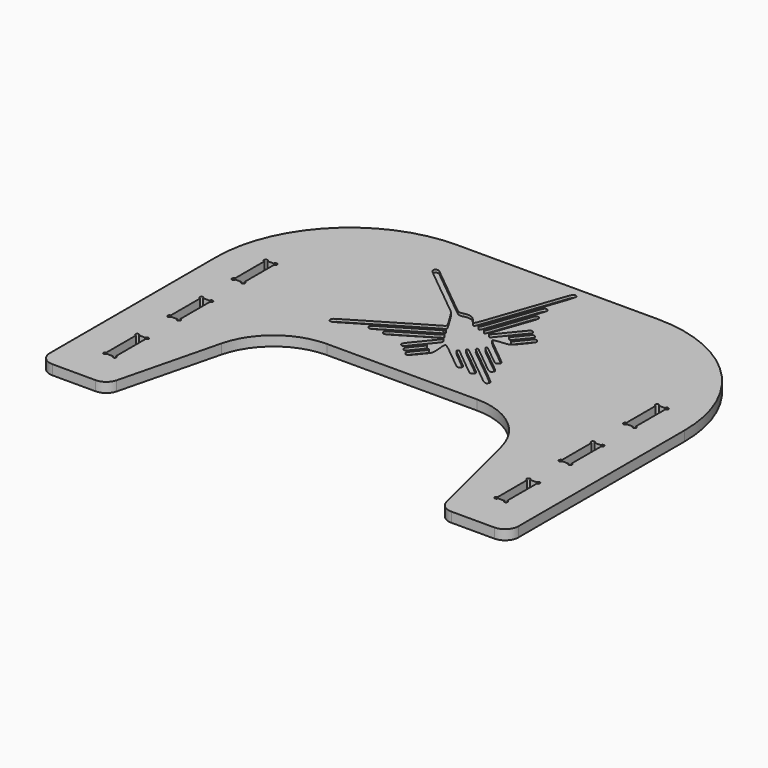
from build123d import *

# Parameters (mm, degrees)
SKETCH_W               = 889
SKETCH_H               = 673.1
PAD_DEPTH              = 18.669
POCKET_DEPTH           = 18.67
FILLET_R               = 127
FILLET001_R            = 25.4
FILLET002_R            = 25.4
POCKET001_DEPTH        = 18.67
LINEARPATTERN_COUNT    = 3
LINEARPATTERN_PITCH    = 152.4
POCKET002_DEPTH        = 18.67
LINEARPATTERN001_COUNT = 3
LINEARPATTERN001_PITCH = 152.4
FILLET003_R            = 254
POCKET003_DEPTH        = 5.08


with BuildPart() as part:
    # Sketch → Pad (new body)
    with BuildSketch(Plane.XY):
        Rectangle(SKETCH_W, SKETCH_H)
    extrude(amount=PAD_DEPTH)

    # Sketch001 (on Face6 of Pad) → Pocket (cut, through all)
    with BuildSketch(Plane.XY.offset(18.669)):
        Polygon((-241.3, -31.75), (241.3, -31.75), (317.5, -336.55), (-317.5, -336.55), align=None)
    extrude(amount=-POCKET_DEPTH, mode=Mode.SUBTRACT)

    # Fillet
    fillet_edges = [part.edges().sort_by_distance(p)[0] for p in [
        (-241.3, -31.75, 9.3345),
        (241.3, -31.75, 9.3345),
    ]]
    fillet(fillet_edges, radius=FILLET_R)

    # Fillet001
    fillet001_edges = [part.edges().sort_by_distance(p)[0] for p in [
        (-317.5, -336.55, 9.3345),
        (317.5, -336.55, 9.3345),
    ]]
    fillet(fillet001_edges, radius=FILLET001_R)

    # Fillet002
    fillet002_edges = [part.edges().sort_by_distance(p)[0] for p in [
        (-444.5, -336.55, 9.3345),
        (444.5, -336.55, 9.3345),
    ]]
    fillet(fillet002_edges, radius=FILLET002_R)

    # Sketch002 (on Face16 of Fillet002) → Pocket001 (cut, through all)
    with BuildSketch(Plane.XY.offset(18.669)):
        with BuildLine():
            ThreePointArc((-361.95, -187.325), (-359.704936, -181.904936), (-365.125, -184.15))
            Line((-377.063, -184.15), (-365.125, -184.15))
            ThreePointArc((-377.063, -184.15), (-382.483064, -181.904936), (-380.238, -187.325))
            Line((-380.238, -257.175), (-380.238, -187.325))
            ThreePointArc((-380.238, -257.175), (-382.483064, -262.595064), (-377.063, -260.35))
            Line((-377.063, -260.35), (-365.125, -260.35))
            ThreePointArc((-365.125, -260.35), (-359.704936, -262.595064), (-361.95, -257.175))
            Line((-361.95, -187.325), (-361.95, -257.175))
        make_face()
    pocket001 = extrude(amount=-POCKET001_DEPTH, mode=Mode.SUBTRACT)

    # LinearPattern: Pocket001 ×3
    with Locations(*[(0, i * LINEARPATTERN_PITCH, 0) for i in range(1, LINEARPATTERN_COUNT)]):
        add(pocket001, mode=Mode.SUBTRACT)

    # Sketch003 (on Face40 of LinearPattern) → Pocket002 (cut, through all)
    with BuildSketch(Plane.XY.offset(18.669)):
        with BuildLine():
            ThreePointArc((377.063, -260.35), (382.483064, -262.595064), (380.238, -257.175))
            Line((380.238, -257.175), (380.238, -187.325))
            ThreePointArc((380.238, -187.325), (382.483064, -181.904936), (377.063, -184.15))
            Line((377.063, -184.15), (365.125, -184.15))
            ThreePointArc((365.125, -184.15), (359.704936, -181.904936), (361.95, -187.325))
            Line((361.95, -187.325), (361.95, -257.175))
            ThreePointArc((361.95, -257.175), (359.704936, -262.595064), (365.125, -260.35))
            Line((365.125, -260.35), (377.063, -260.35))
        make_face()
    pocket002 = extrude(amount=-POCKET002_DEPTH, mode=Mode.SUBTRACT)

    # LinearPattern001: Pocket002 ×3
    with Locations(*[(0, i * LINEARPATTERN001_PITCH, 0) for i in range(1, LINEARPATTERN001_COUNT)]):
        add(pocket002, mode=Mode.SUBTRACT)

    # Fillet003
    fillet003_edges = [part.edges().sort_by_distance(p)[0] for p in [
        (444.5, 336.55, 9.3345),
        (-444.5, 336.55, 9.3345),
    ]]
    fillet(fillet003_edges, radius=FILLET003_R)

    # Sketch004 (on Face66 of Fillet003) → Pocket003 (cut)
    with BuildSketch(Plane.XY.offset(18.669)):
        with BuildLine():
            add(Edge.make_bspline(
                [(50.253053, 318.905467), (51.062467, 318.235753), (51.857487, 317.597367), (52.020893, 317.488147)],
                knots=[0, 0, 0, 0, 1, 1, 1, 1], degree=3))
            add(Edge.make_bspline(
                [(52.020893, 317.488147), (52.92598, 316.88278), (46.394793, 296.037847), (38.386173, 273.97202)],
                knots=[0, 0, 0, 0, 1, 1, 1, 1], degree=3))
            add(Edge.make_bspline(
                [(38.386173, 273.97202), (36.148433, 267.8049), (31.858373, 255.665393), (28.853553, 246.995527)],
                knots=[0, 0, 0, 0, 1, 1, 1, 1], degree=3))
            add(Edge.make_bspline(
                [(28.853553, 246.995527), (25.848733, 238.326507), (22.12086, 227.649193), (20.56892, 223.269387)],
                knots=[0, 0, 0, 0, 1, 1, 1, 1], degree=3))
            add(Edge.make_bspline(
                [(20.56892, 223.269387), (19.01698, 218.890427), (13.900573, 204.191447), (9.199033, 190.605833)],
                knots=[0, 0, 0, 0, 1, 1, 1, 1], degree=3))
            add(Edge.make_bspline(
                [(9.199033, 190.605833), (4.496647, 177.02022), (-0.169333, 163.656433), (-1.170093, 160.909)],
                knots=[0, 0, 0, 0, 1, 1, 1, 1], degree=3))
            add(Edge.make_bspline(
                [(-1.170093, 160.909), (-3.660987, 154.07132), (-3.517053, 151.256153), (-0.73406, 152.408467)],
                knots=[0, 0, 0, 0, 1, 1, 1, 1], degree=3))
            add(Edge.make_bspline(
                [(-0.73406, 152.408467), (0.793327, 153.040927), (0.7874, 153.025687), (5.980853, 167.974433)],
                knots=[0, 0, 0, 0, 1, 1, 1, 1], degree=3))
            add(Edge.make_bspline(
                [(5.980853, 167.974433), (8.690187, 175.773927), (11.741573, 184.49544), (12.76096, 187.35548)],
                knots=[0, 0, 0, 0, 1, 1, 1, 1], degree=3))
            add(Edge.make_bspline(
                [(12.76096, 187.35548), (13.780347, 190.21552), (16.270393, 197.382553), (18.29562, 203.28128)],
                knots=[0, 0, 0, 0, 1, 1, 1, 1], degree=3))
            add(Edge.make_bspline(
                [(18.29562, 203.28128), (25.13076, 223.19488), (27.408293, 229.726067), (33.4518, 246.752533)],
                knots=[0, 0, 0, 0, 1, 1, 1, 1], degree=3))
            add(Edge.make_bspline(
                [(33.4518, 246.752533), (37.544587, 258.28244), (39.604527, 260.46176), (43.98518, 257.894667)],
                knots=[0, 0, 0, 0, 1, 1, 1, 1], degree=3))
            add(Edge.make_bspline(
                [(43.98518, 257.894667), (47.432807, 255.87452), (47.338827, 255.195493), (41.291933, 238.534787)],
                knots=[0, 0, 0, 0, 1, 1, 1, 1], degree=3))
            add(Edge.make_bspline(
                [(41.291933, 238.534787), (38.601227, 231.12222), (34.544847, 219.645653), (32.276627, 213.031493)],
                knots=[0, 0, 0, 0, 1, 1, 1, 1], degree=3))
            add(Edge.make_bspline(
                [(32.276627, 213.031493), (26.47188, 196.104087), (23.01494, 186.142207), (18.46326, 173.216993)],
                knots=[0, 0, 0, 0, 1, 1, 1, 1], degree=3))
            add(Edge.make_bspline(
                [(18.46326, 173.216993), (10.76198, 151.35352), (10.915227, 151.840353), (11.161607, 150.000547)],
                knots=[0, 0, 0, 0, 1, 1, 1, 1], degree=3))
            add(Edge.make_bspline(
                [(11.161607, 150.000547), (11.50112, 147.476633), (11.63574, 147.376727), (13.180907, 148.49602)],
                knots=[0, 0, 0, 0, 1, 1, 1, 1], degree=3))
            add(Edge.make_bspline(
                [(13.180907, 148.49602), (15.11554, 149.897253), (14.14018, 147.430913), (23.991147, 175.817107)],
                knots=[0, 0, 0, 0, 1, 1, 1, 1], degree=3))
            add(Edge.make_bspline(
                [(23.991147, 175.817107), (27.0002, 184.486973), (30.699287, 195.090627), (32.211433, 199.380687)],
                knots=[0, 0, 0, 0, 1, 1, 1, 1], degree=3))
            add(Edge.make_bspline(
                [(32.211433, 199.380687), (33.724427, 203.671593), (36.454927, 211.565067), (38.281187, 216.92362)],
                knots=[0, 0, 0, 0, 1, 1, 1, 1], degree=3))
            add(Edge.make_bspline(
                [(38.281187, 216.92362), (41.9227, 227.61194), (42.63644, 229.269713), (44.146047, 230.54056)],
                knots=[0, 0, 0, 0, 1, 1, 1, 1], degree=3))
            add(Edge.make_bspline(
                [(44.146047, 230.54056), (46.5455, 232.559013), (49.91354, 231.887607), (51.38928, 229.096993)],
                knots=[0, 0, 0, 0, 1, 1, 1, 1], degree=3))
            add(Edge.make_bspline(
                [(51.38928, 229.096993), (52.69738, 226.623033), (51.726253, 223.39554), (38.932273, 187.6806)],
                knots=[0, 0, 0, 0, 1, 1, 1, 1], degree=3))
            add(Edge.make_bspline(
                [(38.932273, 187.6806), (24.223133, 146.618113), (23.046267, 142.461827), (26.318633, 143.1163)],
                knots=[0, 0, 0, 0, 1, 1, 1, 1], degree=3))
            add(Edge.make_bspline(
                [(26.318633, 143.1163), (27.923913, 143.437187), (28.459853, 144.045093), (41.693253, 160.541547)],
                knots=[0, 0, 0, 0, 1, 1, 1, 1], degree=3))
            add(Edge.make_bspline(
                [(41.693253, 160.541547), (45.780113, 165.63594), (50.16754, 171.047833), (51.44262, 172.5676)],
                knots=[0, 0, 0, 0, 1, 1, 1, 1], degree=3))
            add(Edge.make_bspline(
                [(51.44262, 172.5676), (52.718547, 174.08652), (55.857987, 177.96256), (58.419153, 181.179893)],
                knots=[0, 0, 0, 0, 1, 1, 1, 1], degree=3))
            add(Edge.make_bspline(
                [(58.419153, 181.179893), (65.885907, 190.560113), (67.10934, 191.445727), (70.593373, 189.990307)],
                knots=[0, 0, 0, 0, 1, 1, 1, 1], degree=3))
            add(Edge.make_bspline(
                [(70.593373, 189.990307), (74.758127, 188.24956), (74.593027, 184.390453), (70.11924, 178.9049)],
                knots=[0, 0, 0, 0, 1, 1, 1, 1], degree=3))
            add(Edge.make_bspline(
                [(70.11924, 178.9049), (65.329647, 173.034113), (57.321873, 163.299987), (57.150847, 163.14166)],
                knots=[0, 0, 0, 0, 1, 1, 1, 1], degree=3))
            add(Edge.make_bspline(
                [(57.150847, 163.14166), (54.04358, 160.268073), (51.651747, 154.537833), (53.806513, 155.128807)],
                knots=[0, 0, 0, 0, 1, 1, 1, 1], degree=3))
            add(Edge.make_bspline(
                [(53.806513, 155.128807), (54.118933, 155.21432), (54.91988, 155.376033), (55.58536, 155.48864)],
                knots=[0, 0, 0, 0, 1, 1, 1, 1], degree=3))
            add(Edge.make_bspline(
                [(55.58536, 155.48864), (56.68518, 155.67406), (57.215193, 156.215927), (61.4172, 161.448327)],
                knots=[0, 0, 0, 0, 1, 1, 1, 1], degree=3))
            add(Edge.make_bspline(
                [(61.4172, 161.448327), (77.588533, 181.58714), (78.502933, 182.432113), (82.098727, 180.56098)],
                knots=[0, 0, 0, 0, 1, 1, 1, 1], degree=3))
            add(Edge.make_bspline(
                [(82.098727, 180.56098), (86.356613, 178.3461), (85.827447, 175.220207), (79.993913, 168.128527)],
                knots=[0, 0, 0, 0, 1, 1, 1, 1], degree=3))
            add(Edge.make_bspline(
                [(79.993913, 168.128527), (64.12992, 148.844), (64.613367, 149.498473), (64.613367, 147.288673)],
                knots=[0, 0, 0, 0, 1, 1, 1, 1], degree=3))
            add(Edge.make_bspline(
                [(64.613367, 147.288673), (64.613367, 145.86458)],
                knots=[0, 0, 1.682, 1.682], degree=1))
            add(Edge.make_bspline(
                [(64.613367, 145.86458), (65.66916, 146.094027)],
                knots=[0, 0, 1.276107, 1.276107], degree=1))
            add(Edge.make_bspline(
                [(65.66916, 146.094027), (68.116873, 146.62658), (67.568233, 146.02714), (81.79308, 163.697073)],
                knots=[0, 0, 0, 0, 1, 1, 1, 1], degree=3))
            add(Edge.make_bspline(
                [(81.79308, 163.697073), (89.121827, 172.800433), (92.409433, 174.262627), (95.24238, 169.67962)],
                knots=[0, 0, 0, 0, 1, 1, 1, 1], degree=3))
            add(Edge.make_bspline(
                [(95.24238, 169.67962), (97.3709, 166.23538), (97.037313, 165.682507), (81.41208, 146.72818)],
                knots=[0, 0, 0, 0, 1, 1, 1, 1], degree=3))
            add(Edge.make_bspline(
                [(81.41208, 146.72818), (71.700813, 134.948507), (72.243527, 135.255847), (58.7629, 133.88848)],
                knots=[0, 0, 0, 0, 1, 1, 1, 1], degree=3))
            add(Edge.make_bspline(
                [(58.7629, 133.88848), (44.601553, 132.451687), (41.537467, 131.855633), (41.537467, 130.537373)],
                knots=[0, 0, 0, 0, 1, 1, 1, 1], degree=3))
            add(Edge.make_bspline(
                [(41.537467, 130.537373), (41.537467, 129.186093), (45.322067, 125.814667), (61.550127, 112.70996)],
                knots=[0, 0, 0, 0, 1, 1, 1, 1], degree=3))
            add(Edge.make_bspline(
                [(61.550127, 112.70996), (64.575267, 110.267327), (69.695907, 106.09834), (72.929327, 103.447427)],
                knots=[0, 0, 0, 0, 1, 1, 1, 1], degree=3))
            add(Edge.make_bspline(
                [(72.929327, 103.447427), (76.162747, 100.795667), (81.062407, 96.80702), (83.81746, 94.583673)],
                knots=[0, 0, 0, 0, 1, 1, 1, 1], degree=3))
            add(Edge.make_bspline(
                [(83.81746, 94.583673), (98.62058, 82.6389), (99.330933, 81.585647), (95.393087, 77.425127)],
                knots=[0, 0, 0, 0, 1, 1, 1, 1], degree=3))
            add(Edge.make_bspline(
                [(95.393087, 77.425127), (92.447533, 74.311933), (91.407827, 74.763207), (79.960047, 84.11718)],
                knots=[0, 0, 0, 0, 1, 1, 1, 1], degree=3))
            add(Edge.make_bspline(
                [(79.960047, 84.11718), (49.223507, 109.2327), (51.192007, 107.691767), (50.163307, 107.433533)],
                knots=[0, 0, 0, 0, 1, 1, 1, 1], degree=3))
            add(Edge.make_bspline(
                [(50.163307, 107.433533), (47.394707, 106.739267), (49.182867, 103.676873), (55.169647, 98.86188)],
                knots=[0, 0, 0, 0, 1, 1, 1, 1], degree=3))
            add(Edge.make_bspline(
                [(55.169647, 98.86188), (57.771453, 96.76892), (62.66688, 92.787893), (66.04762, 90.015907)],
                knots=[0, 0, 0, 0, 1, 1, 1, 1], degree=3))
            add(Edge.make_bspline(
                [(66.04762, 90.015907), (69.42836, 87.24392), (76.44892, 81.55178), (81.6483, 77.367553)],
                knots=[0, 0, 0, 0, 1, 1, 1, 1], degree=3))
            add(Edge.make_bspline(
                [(81.6483, 77.367553), (86.84768, 73.183327), (92.052987, 68.96354), (93.214613, 67.99072)],
                knots=[0, 0, 0, 0, 1, 1, 1, 1], degree=3))
            add(Edge.make_bspline(
                [(93.214613, 67.99072), (96.224513, 65.469347), (96.191493, 65.49644), (100.930287, 61.736393)],
                knots=[0, 0, 0, 0, 1, 1, 1, 1], degree=3))
            add(Edge.make_bspline(
                [(100.930287, 61.736393), (106.77906, 57.095813), (107.592707, 55.405867), (105.47604, 52.29606)],
                knots=[0, 0, 0, 0, 1, 1, 1, 1], degree=3))
            add(Edge.make_bspline(
                [(105.47604, 52.29606), (102.675267, 48.18126), (100.544207, 48.7299), (91.9734, 55.774167)],
                knots=[0, 0, 0, 0, 1, 1, 1, 1], degree=3))
            add(Edge.make_bspline(
                [(91.9734, 55.774167), (88.812793, 58.37174), (82.789607, 63.292567), (78.588447, 66.708867)],
                knots=[0, 0, 0, 0, 1, 1, 1, 1], degree=3))
            add(Edge.make_bspline(
                [(78.588447, 66.708867), (74.388133, 70.126013), (68.171907, 75.207707), (64.775927, 78.001707)],
                knots=[0, 0, 0, 0, 1, 1, 1, 1], degree=3))
            add(Edge.make_bspline(
                [(64.775927, 78.001707), (61.3791, 80.796553), (55.82158, 85.324527), (52.424753, 88.06434)],
                knots=[0, 0, 0, 0, 1, 1, 1, 1], degree=3))
            add(Edge.make_bspline(
                [(52.424753, 88.06434), (49.028773, 90.804153), (45.581993, 93.60662), (44.766653, 94.291573)],
                knots=[0, 0, 0, 0, 1, 1, 1, 1], degree=3))
            add(Edge.make_bspline(
                [(44.766653, 94.291573), (43.371347, 95.464207), (40.862673, 96.056027), (40.18026, 95.373613)],
                knots=[0, 0, 0, 0, 1, 1, 1, 1], degree=3))
            add(Edge.make_bspline(
                [(40.18026, 95.373613), (39.732373, 94.92488), (40.522313, 92.146967), (41.2496, 91.61272)],
                knots=[0, 0, 0, 0, 1, 1, 1, 1], degree=3))
            add(Edge.make_bspline(
                [(41.2496, 91.61272), (41.67632, 91.299453), (43.925913, 89.47912), (46.250013, 87.565653)],
                knots=[0, 0, 0, 0, 1, 1, 1, 1], degree=3))
            add(Edge.make_bspline(
                [(46.250013, 87.565653), (48.573267, 85.653033), (53.765873, 81.4451), (57.78754, 78.215067)],
                knots=[0, 0, 0, 0, 1, 1, 1, 1], degree=3))
            add(Edge.make_bspline(
                [(57.78754, 78.215067), (61.810053, 74.985033), (67.148287, 70.639093), (69.651033, 68.557987)],
                knots=[0, 0, 0, 0, 1, 1, 1, 1], degree=3))
            add(Edge.make_bspline(
                [(69.651033, 68.557987), (72.15378, 66.47688), (77.638487, 62.020027), (81.8388, 58.65368)],
                knots=[0, 0, 0, 0, 1, 1, 1, 1], degree=3))
            add(Edge.make_bspline(
                [(81.8388, 58.65368), (86.03996, 55.287333), (90.720333, 51.48834), (92.239253, 50.21072)],
                knots=[0, 0, 0, 0, 1, 1, 1, 1], degree=3))
            add(Edge.make_bspline(
                [(92.239253, 50.21072), (93.75902, 48.933947), (98.877967, 44.76242), (103.615067, 40.94226)],
                knots=[0, 0, 0, 0, 1, 1, 1, 1], degree=3))
            add(Edge.make_bspline(
                [(103.615067, 40.94226), (125.410807, 23.363767), (125.777413, 22.942973), (122.797147, 18.91284)],
                knots=[0, 0, 0, 0, 1, 1, 1, 1], degree=3))
            add(Edge.make_bspline(
                [(122.797147, 18.91284), (120.239367, 15.452513), (117.53088, 16.227213), (109.628093, 22.680507)],
                knots=[0, 0, 0, 0, 1, 1, 1, 1], degree=3))
            add(Edge.make_bspline(
                [(109.628093, 22.680507), (107.48264, 24.43226), (97.610507, 32.49168), (87.689267, 40.590047)],
                knots=[0, 0, 0, 0, 1, 1, 1, 1], degree=3))
            add(Edge.make_bspline(
                [(87.689267, 40.590047), (77.768027, 48.68926), (66.785067, 57.674087), (63.28156, 60.556987)],
                knots=[0, 0, 0, 0, 1, 1, 1, 1], degree=3))
            add(Edge.make_bspline(
                [(63.28156, 60.556987), (57.22874, 65.538773), (47.50562, 73.4568), (37.586073, 81.481507)],
                knots=[0, 0, 0, 0, 1, 1, 1, 1], degree=3))
            add(Edge.make_bspline(
                [(37.586073, 81.481507), (32.70504, 85.43036), (31.97606, 85.73262), (30.834753, 84.281433)],
                knots=[0, 0, 0, 0, 1, 1, 1, 1], degree=3))
            add(Edge.make_bspline(
                [(30.834753, 84.281433), (29.440293, 82.508513), (29.38526, 82.571167), (39.511393, 74.42962)],
                knots=[0, 0, 0, 0, 1, 1, 1, 1], degree=3))
            add(Edge.make_bspline(
                [(39.511393, 74.42962), (43.313773, 71.373153), (46.750393, 68.596933), (47.149173, 68.260807)],
                knots=[0, 0, 0, 0, 1, 1, 1, 1], degree=3))
            add(Edge.make_bspline(
                [(47.149173, 68.260807), (50.51044, 65.427013), (54.9656, 61.782113), (59.90082, 57.829027)],
                knots=[0, 0, 0, 0, 1, 1, 1, 1], degree=3))
            add(Edge.make_bspline(
                [(59.90082, 57.829027), (63.118153, 55.251773), (67.87134, 51.374887), (70.463833, 49.213347)],
                knots=[0, 0, 0, 0, 1, 1, 1, 1], degree=3))
            add(Edge.make_bspline(
                [(70.463833, 49.213347), (73.05548, 47.051807), (77.770567, 43.2054), (80.941333, 40.666247)],
                knots=[0, 0, 0, 0, 1, 1, 1, 1], degree=3))
            add(Edge.make_bspline(
                [(80.941333, 40.666247), (89.1921, 34.05886), (90.31224, 30.65018), (85.099313, 28.0162)],
                knots=[0, 0, 0, 0, 1, 1, 1, 1], degree=3))
            add(Edge.make_bspline(
                [(85.099313, 28.0162), (82.0674, 26.48458), (81.469653, 26.808853), (70.301273, 36.059533)],
                knots=[0, 0, 0, 0, 1, 1, 1, 1], degree=3))
            add(Edge.make_bspline(
                [(70.301273, 36.059533), (65.29578, 40.20566), (57.690173, 46.468453), (53.400113, 49.97704)],
                knots=[0, 0, 0, 0, 1, 1, 1, 1], degree=3))
            add(Edge.make_bspline(
                [(53.400113, 49.97704), (49.110053, 53.486473), (43.844633, 57.829027), (41.69918, 59.628193)],
                knots=[0, 0, 0, 0, 1, 1, 1, 1], degree=3))
            add(Edge.make_bspline(
                [(41.69918, 59.628193), (39.554573, 61.42736), (35.53206, 64.709887), (32.761767, 66.92392)],
                knots=[0, 0, 0, 0, 1, 1, 1, 1], degree=3))
            add(Edge.make_bspline(
                [(32.761767, 66.92392), (29.990627, 69.137107), (27.054387, 71.563653), (26.236507, 72.315493)],
                knots=[0, 0, 0, 0, 1, 1, 1, 1], degree=3))
            add(Edge.make_bspline(
                [(26.236507, 72.315493), (24.37892, 74.02322), (23.556807, 74.306853), (22.490007, 73.607507)],
                knots=[0, 0, 0, 0, 1, 1, 1, 1], degree=3))
            add(Edge.make_bspline(
                [(22.490007, 73.607507), (20.701847, 72.436567), (20.850013, 70.98284), (22.932813, 69.27342)],
                knots=[0, 0, 0, 0, 1, 1, 1, 1], degree=3))
            add(Edge.make_bspline(
                [(22.932813, 69.27342), (23.735453, 68.613867), (26.166233, 66.60388), (28.3337, 64.806407)],
                knots=[0, 0, 0, 0, 1, 1, 1, 1], degree=3))
            add(Edge.make_bspline(
                [(28.3337, 64.806407), (30.501167, 63.008087), (34.614273, 59.651053), (37.474313, 57.34558)],
                knots=[0, 0, 0, 0, 1, 1, 1, 1], degree=3))
            add(Edge.make_bspline(
                [(37.474313, 57.34558), (59.41822, 39.655327), (60.712773, 38.46068), (60.712773, 35.894433)],
                knots=[0, 0, 0, 0, 1, 1, 1, 1], degree=3))
            add(Edge.make_bspline(
                [(60.712773, 35.894433), (60.712773, 33.704953), (58.221033, 31.18104), (56.0705, 31.192047)],
                knots=[0, 0, 0, 0, 1, 1, 1, 1], degree=3))
            add(Edge.make_bspline(
                [(56.0705, 31.192047), (53.584687, 31.205593), (52.140273, 32.17926), (41.528153, 41.002373)],
                knots=[0, 0, 0, 0, 1, 1, 1, 1], degree=3))
            add(Edge.make_bspline(
                [(41.528153, 41.002373), (36.303373, 45.34662), (18.646987, 59.689153), (8.944187, 67.47256)],
                knots=[0, 0, 0, 0, 1, 1, 1, 1], degree=3))
            add(Edge.make_bspline(
                [(8.944187, 67.47256), (2.11836, 72.947953), (-0.146473, 74.5871), (-1.551093, 75.070547)],
                knots=[0, 0, 0, 0, 1, 1, 1, 1], degree=3))
            add(Edge.make_bspline(
                [(-1.551093, 75.070547), (-3.340947, 75.686073)],
                knots=[0, 0, 2.235514, 2.235514], degree=1))
            add(Edge.make_bspline(
                [(-3.340947, 75.686073), (-3.65252, 74.867347)],
                knots=[0, 0, 1.034656, 1.034656], degree=1))
            add(Edge.make_bspline(
                [(-3.65252, 74.867347), (-4.3688, 72.982667), (-4.3053, 70.311433), (-3.313853, 60.59932)],
                knots=[0, 0, 0, 0, 1, 1, 1, 1], degree=3))
            add(Edge.make_bspline(
                [(-3.313853, 60.59932), (-1.839807, 46.155187), (-2.135293, 44.11218), (-6.46176, 38.823053)],
                knots=[0, 0, 0, 0, 1, 1, 1, 1], degree=3))
            add(Edge.make_bspline(
                [(-6.46176, 38.823053), (-11.382587, 32.80918), (-15.954587, 27.178847), (-19.661293, 22.572133)],
                knots=[0, 0, 0, 0, 1, 1, 1, 1], degree=3))
            add(Edge.make_bspline(
                [(-19.661293, 22.572133), (-26.430393, 14.15796), (-28.739253, 12.998027), (-32.145393, 16.29918)],
                knots=[0, 0, 0, 0, 1, 1, 1, 1], degree=3))
            add(Edge.make_bspline(
                [(-32.145393, 16.29918), (-35.591327, 19.638433), (-34.394987, 21.628947), (-15.315353, 44.299293)],
                knots=[0, 0, 0, 0, 1, 1, 1, 1], degree=3))
            add(Edge.make_bspline(
                [(-15.315353, 44.299293), (-13.795587, 46.105233), (-12.8651, 50.042233), (-13.95984, 50.034613)],
                knots=[0, 0, 0, 0, 1, 1, 1, 1], degree=3))
            add(Edge.make_bspline(
                [(-13.95984, 50.034613), (-16.112913, 50.018527), (-17.382067, 48.69434), (-28.403127, 34.96564)],
                knots=[0, 0, 0, 0, 1, 1, 1, 1], degree=3))
            add(Edge.make_bspline(
                [(-28.403127, 34.96564), (-34.473727, 27.403213), (-36.2331, 25.505833), (-37.940827, 24.679487)],
                knots=[0, 0, 0, 0, 1, 1, 1, 1], degree=3))
            add(Edge.make_bspline(
                [(-37.940827, 24.679487), (-42.525527, 22.459527), (-46.84268, 27.84348), (-43.85056, 32.048873)],
                knots=[0, 0, 0, 0, 1, 1, 1, 1], degree=3))
            add(Edge.make_bspline(
                [(-43.85056, 32.048873), (-42.81424, 33.50514), (-28.906047, 50.58918), (-25.985047, 53.993627)],
                knots=[0, 0, 0, 0, 1, 1, 1, 1], degree=3))
            add(Edge.make_bspline(
                [(-25.985047, 53.993627), (-23.516167, 56.871447), (-23.362073, 57.50052), (-24.80056, 58.843333)],
                knots=[0, 0, 0, 0, 1, 1, 1, 1], degree=3))
            add(Edge.make_bspline(
                [(-24.80056, 58.843333), (-26.35758, 60.297907), (-26.94686, 60.064227), (-29.201533, 57.103433)],
                knots=[0, 0, 0, 0, 1, 1, 1, 1], degree=3))
            add(Edge.make_bspline(
                [(-29.201533, 57.103433), (-30.051587, 55.98668), (-33.323107, 51.929453), (-36.472707, 48.086433)],
                knots=[0, 0, 0, 0, 1, 1, 1, 1], degree=3))
            add(Edge.make_bspline(
                [(-36.472707, 48.086433), (-39.62146, 44.242567), (-43.318853, 39.68496), (-44.687913, 37.956913)],
                knots=[0, 0, 0, 0, 1, 1, 1, 1], degree=3))
            add(Edge.make_bspline(
                [(-44.687913, 37.956913), (-49.152387, 32.323193), (-52.506033, 31.540027), (-55.40502, 35.455013)],
                knots=[0, 0, 0, 0, 1, 1, 1, 1], degree=3))
            add(Edge.make_bspline(
                [(-55.40502, 35.455013), (-57.845113, 38.749393), (-57.216887, 39.648553), (-27.534447, 75.383813)],
                knots=[0, 0, 0, 0, 1, 1, 1, 1], degree=3))
            add(Edge.make_bspline(
                [(-27.534447, 75.383813), (-19.29638, 85.301667), (-18.83664, 85.944287), (-18.65884, 87.793407)],
                knots=[0, 0, 0, 0, 1, 1, 1, 1], degree=3))
            add(Edge.make_bspline(
                [(-18.65884, 87.793407), (-18.508133, 89.363127)],
                knots=[0, 0, 1.862525, 1.862525], degree=1))
            add(Edge.make_bspline(
                [(-18.508133, 89.363127), (-19.972867, 89.363127)],
                knots=[0, 0, 1.73, 1.73], degree=1))
            add(Edge.make_bspline(
                [(-19.972867, 89.363127), (-21.692447, 89.363127), (-23.160567, 88.59774), (-34.191787, 81.95056)],
                knots=[0, 0, 0, 0, 1, 1, 1, 1], degree=3))
            add(Edge.make_bspline(
                [(-34.191787, 81.95056), (-38.213453, 79.526553), (-44.283207, 75.868953), (-47.680033, 73.821713)],
                knots=[0, 0, 0, 0, 1, 1, 1, 1], degree=3))
            add(Edge.make_bspline(
                [(-47.680033, 73.821713), (-51.076013, 71.774473), (-57.219427, 68.08978), (-61.33084, 65.634447)],
                knots=[0, 0, 0, 0, 1, 1, 1, 1], degree=3))
            add(Edge.make_bspline(
                [(-61.33084, 65.634447), (-65.442253, 63.178267), (-73.70572, 58.204947), (-79.694193, 54.581213)],
                knots=[0, 0, 0, 0, 1, 1, 1, 1], degree=3))
            add(Edge.make_bspline(
                [(-79.694193, 54.581213), (-96.51746, 44.40174), (-97.77984, 44.03598), (-100.422287, 48.583427)],
                knots=[0, 0, 0, 0, 1, 1, 1, 1], degree=3))
            add(Edge.make_bspline(
                [(-100.422287, 48.583427), (-102.312047, 51.834627), (-100.986167, 53.960607), (-94.807193, 57.585187)],
                knots=[0, 0, 0, 0, 1, 1, 1, 1], degree=3))
            add(Edge.make_bspline(
                [(-94.807193, 57.585187), (-89.838107, 60.499413), (-58.921227, 78.94828), (-44.26712, 87.742607)],
                knots=[0, 0, 0, 0, 1, 1, 1, 1], degree=3))
            add(Edge.make_bspline(
                [(-44.26712, 87.742607), (-38.1, 91.443387), (-31.627233, 95.30588), (-29.8831, 96.325267)],
                knots=[0, 0, 0, 0, 1, 1, 1, 1], degree=3))
            add(Edge.make_bspline(
                [(-29.8831, 96.325267), (-25.624367, 98.814467), (-24.28494, 101.230007), (-26.816473, 101.85654)],
                knots=[0, 0, 0, 0, 1, 1, 1, 1], degree=3))
            add(Edge.make_bspline(
                [(-26.816473, 101.85654), (-28.50134, 102.2731), (-29.894953, 101.555127), (-44.7548, 92.60586)],
                knots=[0, 0, 0, 0, 1, 1, 1, 1], degree=3))
            add(Edge.make_bspline(
                [(-44.7548, 92.60586), (-51.36896, 88.62314), (-58.02376, 84.641267), (-59.54268, 83.758193)],
                knots=[0, 0, 0, 0, 1, 1, 1, 1], degree=3))
            add(Edge.make_bspline(
                [(-59.54268, 83.758193), (-61.062447, 82.874273), (-64.864827, 80.57642), (-67.99326, 78.6511)],
                knots=[0, 0, 0, 0, 1, 1, 1, 1], degree=3))
            add(Edge.make_bspline(
                [(-67.99326, 78.6511), (-71.121693, 76.724933), (-78.434353, 72.295173), (-84.24418, 68.805213)],
                knots=[0, 0, 0, 0, 1, 1, 1, 1], degree=3))
            add(Edge.make_bspline(
                [(-84.24418, 68.805213), (-90.054007, 65.3161), (-97.14738, 61.03112), (-100.00742, 59.282753)],
                knots=[0, 0, 0, 0, 1, 1, 1, 1], degree=3))
            add(Edge.make_bspline(
                [(-100.00742, 59.282753), (-110.92942, 52.606787), (-119.561187, 47.534407), (-120.89638, 47.008627)],
                knots=[0, 0, 0, 0, 1, 1, 1, 1], degree=3))
            add(Edge.make_bspline(
                [(-120.89638, 47.008627), (-127.15494, 44.540593), (-131.41452, 50.732267), (-126.4539, 55.08752)],
                knots=[0, 0, 0, 0, 1, 1, 1, 1], degree=3))
            add(Edge.make_bspline(
                [(-126.4539, 55.08752), (-125.834987, 55.630233), (-117.657033, 60.66028), (-108.2802, 66.264367)],
                knots=[0, 0, 0, 0, 1, 1, 1, 1], degree=3))
            add(Edge.make_bspline(
                [(-108.2802, 66.264367), (-98.903367, 71.868453), (-84.212007, 80.656853), (-75.63104, 85.795273)],
                knots=[0, 0, 0, 0, 1, 1, 1, 1], degree=3))
            add(Edge.make_bspline(
                [(-75.63104, 85.795273), (-67.05092, 90.933693), (-56.447267, 97.254907), (-52.06746, 99.844013)],
                knots=[0, 0, 0, 0, 1, 1, 1, 1], degree=3))
            add(Edge.make_bspline(
                [(-52.06746, 99.844013), (-47.687653, 102.43312), (-42.202947, 105.713107), (-39.879693, 107.133813)],
                knots=[0, 0, 0, 0, 1, 1, 1, 1], degree=3))
            add(Edge.make_bspline(
                [(-39.879693, 107.133813), (-37.555593, 108.55452), (-35.39236, 109.815207), (-35.073167, 109.935433)],
                knots=[0, 0, 0, 0, 1, 1, 1, 1], degree=3))
            add(Edge.make_bspline(
                [(-35.073167, 109.935433), (-34.753127, 110.054813), (-34.135907, 110.9218), (-33.70072, 111.860753)],
                knots=[0, 0, 0, 0, 1, 1, 1, 1], degree=3))
            add(Edge.make_bspline(
                [(-33.70072, 111.860753), (-32.909087, 113.569327)],
                knots=[0, 0, 2.224084, 2.224084], degree=1))
            add(Edge.make_bspline(
                [(-32.909087, 113.569327), (-33.61182, 113.829253)],
                knots=[0, 0, 0.884957, 0.884957], degree=1))
            add(Edge.make_bspline(
                [(-33.61182, 113.829253), (-35.340713, 114.468487), (-36.288133, 114.164533), (-41.016767, 111.456893)],
                knots=[0, 0, 0, 0, 1, 1, 1, 1], degree=3))
            add(Edge.make_bspline(
                [(-41.016767, 111.456893), (-47.45482, 107.76966), (-59.231953, 100.826993), (-63.768393, 98.044)],
                knots=[0, 0, 0, 0, 1, 1, 1, 1], degree=3))
            add(Edge.make_bspline(
                [(-63.768393, 98.044), (-65.8241, 96.783313), (-72.551713, 92.731167), (-78.718833, 89.038853)],
                knots=[0, 0, 0, 0, 1, 1, 1, 1], degree=3))
            add(Edge.make_bspline(
                [(-78.718833, 89.038853), (-84.885953, 85.34654), (-94.027413, 79.835587), (-99.03206, 76.790973)],
                knots=[0, 0, 0, 0, 1, 1, 1, 1], degree=3))
            add(Edge.make_bspline(
                [(-99.03206, 76.790973), (-104.037553, 73.747207), (-111.423873, 69.307287), (-115.44554, 66.924767)],
                knots=[0, 0, 0, 0, 1, 1, 1, 1], degree=3))
            add(Edge.make_bspline(
                [(-115.44554, 66.924767), (-119.468053, 64.542247), (-124.806287, 61.327453), (-127.309033, 59.780593)],
                knots=[0, 0, 0, 0, 1, 1, 1, 1], degree=3))
            add(Edge.make_bspline(
                [(-127.309033, 59.780593), (-137.99312, 53.176593), (-177.22596, 29.838227), (-179.185993, 28.921287)],
                knots=[0, 0, 0, 0, 1, 1, 1, 1], degree=3))
            add(Edge.make_bspline(
                [(-179.185993, 28.921287), (-183.694493, 26.811393), (-187.103173, 28.4099), (-187.5282, 32.832887)],
                knots=[0, 0, 0, 0, 1, 1, 1, 1], degree=3))
            add(Edge.make_bspline(
                [(-187.5282, 32.832887), (-187.78474, 35.50158), (-186.719633, 36.727553), (-181.423733, 39.85768)],
                knots=[0, 0, 0, 0, 1, 1, 1, 1], degree=3))
            add(Edge.make_bspline(
                [(-181.423733, 39.85768), (-171.69638, 45.60824), (-116.11102, 78.74254), (-107.48264, 83.9343)],
                knots=[0, 0, 0, 0, 1, 1, 1, 1], degree=3))
            add(Edge.make_bspline(
                [(-107.48264, 83.9343), (-103.908013, 86.08568), (-97.545313, 89.887213), (-93.345, 92.38234)],
                knots=[0, 0, 0, 0, 1, 1, 1, 1], degree=3))
            add(Edge.make_bspline(
                [(-93.345, 92.38234), (-89.14384, 94.87662), (-79.417333, 100.681367), (-71.731293, 105.28046)],
                knots=[0, 0, 0, 0, 1, 1, 1, 1], degree=3))
            add(Edge.make_bspline(
                [(-71.731293, 105.28046), (-64.044407, 109.879553), (-54.538033, 115.513273), (-50.605267, 117.799273)],
                knots=[0, 0, 0, 0, 1, 1, 1, 1], degree=3))
            add(Edge.make_bspline(
                [(-50.605267, 117.799273), (-37.68344, 125.310053), (-38.187207, 123.317), (-45.947753, 136.21512)],
                knots=[0, 0, 0, 0, 1, 1, 1, 1], degree=3))
            add(Edge.make_bspline(
                [(-45.947753, 136.21512), (-48.9966, 141.28242), (-53.555053, 148.865167), (-56.07812, 153.066327)],
                knots=[0, 0, 0, 0, 1, 1, 1, 1], degree=3))
            add(Edge.make_bspline(
                [(-56.07812, 153.066327), (-61.451913, 162.015593), (-61.649187, 162.235727), (-71.357913, 170.138513)],
                knots=[0, 0, 0, 0, 1, 1, 1, 1], degree=3))
            add(Edge.make_bspline(
                [(-71.357913, 170.138513), (-75.085787, 173.17212), (-81.15554, 178.10988), (-84.84616, 181.111313)],
                knots=[0, 0, 0, 0, 1, 1, 1, 1], degree=3))
            add(Edge.make_bspline(
                [(-84.84616, 181.111313), (-88.53678, 184.1119), (-94.258553, 188.792273), (-97.560553, 191.511767)],
                knots=[0, 0, 0, 0, 1, 1, 1, 1], degree=3))
            add(Edge.make_bspline(
                [(-97.560553, 191.511767), (-100.862553, 194.23126), (-106.55554, 198.8693), (-110.211447, 201.819087)],
                knots=[0, 0, 0, 0, 1, 1, 1, 1], degree=3))
            add(Edge.make_bspline(
                [(-110.211447, 201.819087), (-113.867353, 204.768027), (-117.92204, 208.05902), (-119.221673, 209.131747)],
                knots=[0, 0, 0, 0, 1, 1, 1, 1], degree=3))
            add(Edge.make_bspline(
                [(-119.221673, 209.131747), (-120.52046, 210.204473), (-124.55398, 213.48954), (-128.18364, 216.4334)],
                knots=[0, 0, 0, 0, 1, 1, 1, 1], degree=3))
            add(Edge.make_bspline(
                [(-128.18364, 216.4334), (-131.814147, 219.376413), (-138.458787, 224.78746), (-142.950353, 228.458607)],
                knots=[0, 0, 0, 0, 1, 1, 1, 1], degree=3))
            add(Edge.make_bspline(
                [(-142.950353, 228.458607), (-147.44192, 232.129753), (-154.4828, 237.86846), (-158.596753, 241.212793)],
                knots=[0, 0, 0, 0, 1, 1, 1, 1], degree=3))
            add(Edge.make_bspline(
                [(-158.596753, 241.212793), (-164.620787, 246.109067), (-166.20998, 247.567873), (-166.762007, 248.70918)],
                knots=[0, 0, 0, 0, 1, 1, 1, 1], degree=3))
            add(Edge.make_bspline(
                [(-166.762007, 248.70918), (-169.036153, 253.407333), (-164.967073, 257.648287), (-160.12668, 255.6256)],
                knots=[0, 0, 0, 0, 1, 1, 1, 1], degree=3))
            add(Edge.make_bspline(
                [(-160.12668, 255.6256), (-159.018393, 255.16332), (-153.96718, 251.17806), (-143.397393, 242.426067)],
                knots=[0, 0, 0, 0, 1, 1, 1, 1], degree=3))
            add(Edge.make_bspline(
                [(-143.397393, 242.426067), (-138.339407, 238.238453), (-123.841933, 226.4029), (-106.66984, 212.44306)],
                knots=[0, 0, 0, 0, 1, 1, 1, 1], degree=3))
            add(Edge.make_bspline(
                [(-106.66984, 212.44306), (-102.469527, 209.027607), (-95.814727, 203.587773), (-91.88196, 200.353507)],
                knots=[0, 0, 0, 0, 1, 1, 1, 1], degree=3))
            add(Edge.make_bspline(
                [(-91.88196, 200.353507), (-87.949193, 197.120087), (-82.391673, 192.58788), (-79.531633, 190.28156)],
                knots=[0, 0, 0, 0, 1, 1, 1, 1], degree=3))
            add(Edge.make_bspline(
                [(-79.531633, 190.28156), (-76.671593, 187.976087), (-72.64908, 184.68086), (-70.593373, 182.960433)],
                knots=[0, 0, 0, 0, 1, 1, 1, 1], degree=3))
            add(Edge.make_bspline(
                [(-70.593373, 182.960433), (-53.831913, 168.92778), (-53.399267, 168.722887), (-45.139187, 170.903053)],
                knots=[0, 0, 0, 0, 1, 1, 1, 1], degree=3))
            add(Edge.make_bspline(
                [(-45.139187, 170.903053), (-34.306087, 173.763093), (-26.81224, 170.941153), (-20.25904, 161.534687)],
                knots=[0, 0, 0, 0, 1, 1, 1, 1], degree=3))
            add(Edge.make_bspline(
                [(-20.25904, 161.534687), (-18.61058, 159.168253), (-16.08328, 156.966073), (-15.014787, 156.966073)],
                knots=[0, 0, 0, 0, 1, 1, 1, 1], degree=3))
            add(Edge.make_bspline(
                [(-15.014787, 156.966073), (-13.306213, 156.966073), (-11.479953, 161.446633), (-2.830407, 186.8678)],
                knots=[0, 0, 0, 0, 1, 1, 1, 1], degree=3))
            add(Edge.make_bspline(
                [(-2.830407, 186.8678), (2.274993, 201.87412), (7.966287, 218.291833), (12.887113, 232.207647)],
                knots=[0, 0, 0, 0, 1, 1, 1, 1], degree=3))
            add(Edge.make_bspline(
                [(12.887113, 232.207647), (13.961533, 235.246333), (17.83334, 246.435033), (21.490093, 257.071707)],
                knots=[0, 0, 0, 0, 1, 1, 1, 1], degree=3))
            add(Edge.make_bspline(
                [(21.490093, 257.071707), (25.147693, 267.707533), (29.6799, 280.724187), (31.560347, 285.998073)],
                knots=[0, 0, 0, 0, 1, 1, 1, 1], degree=3))
            add(Edge.make_bspline(
                [(31.560347, 285.998073), (35.057927, 295.801627), (37.676667, 303.396227), (40.37838, 311.57164)],
                knots=[0, 0, 0, 0, 1, 1, 1, 1], degree=3))
            add(Edge.make_bspline(
                [(40.37838, 311.57164), (43.041993, 319.632753), (46.38294, 322.113487), (50.253053, 318.905467)],
                knots=[0, 0, 0, 0, 1, 1, 1, 1], degree=3))
        make_face()
    extrude(amount=-POCKET003_DEPTH, mode=Mode.SUBTRACT)


with BuildPart() as part_1:
    # Clone placement: moved
    add(part.part.moved(Location((0, 0, -18.669))))


solid = part_1.part
